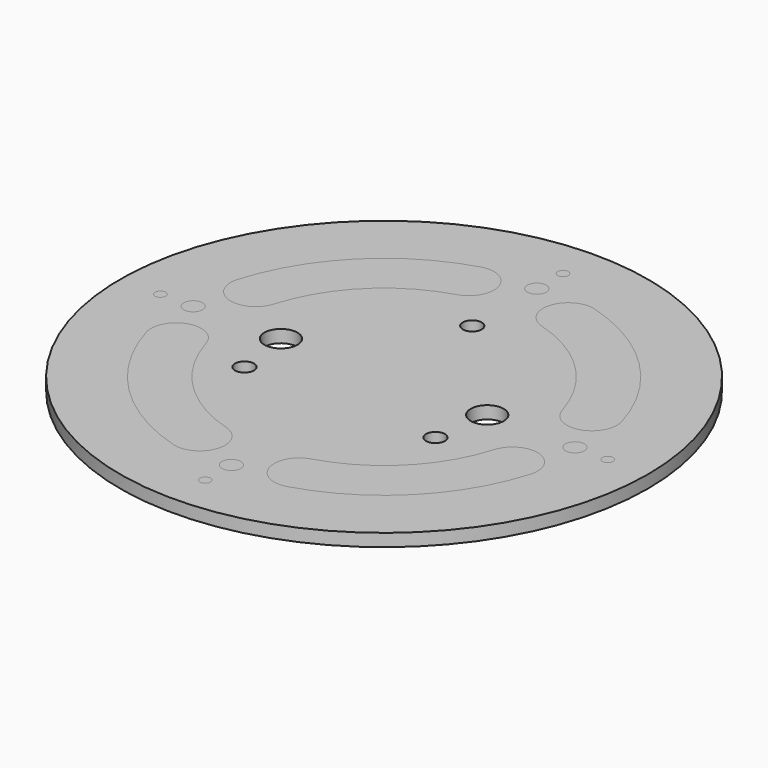
from build123d import *

# Parameters (mm, degrees)
F0_R     = 66.548
F0_R_2   = 2.3876
F0_R_3   = 4.1656
F3_DEPTH = 3.175
F2_R     = 2.3876
F2_R_2   = 1.35255


with BuildPart() as f3:
    # F0 (on Top) → F3 (new body)
    with BuildSketch(Plane.XY):
        Circle(F0_R)
        with Locations((-24.0647675102, -13.8938)):
            Circle(F0_R_2, mode=Mode.SUBTRACT)
        with Locations((24.0647675102, -13.8938)):
            Circle(F0_R_2, mode=Mode.SUBTRACT)
        with Locations((-26.0096, 0)):
            Circle(F0_R_3, mode=Mode.SUBTRACT)
        with Locations((26.0096, 0)):
            Circle(F0_R_3, mode=Mode.SUBTRACT)
        with Locations((0, 27.7876)):
            Circle(F0_R_2, mode=Mode.SUBTRACT)
    extrude(amount=-F3_DEPTH)


with BuildPart() as f3b:
    # F1 (on Top) → F3, piece 2 (new body)
    with BuildSketch(Plane.XY):
        with BuildLine():
            ThreePointArc((48.4661085088, 14.350416092), (35.7414193619, 35.7414193619), (14.350416092, 48.4661085088))
            ThreePointArc((14.350416092, 48.4661085088), (6.4588929009, 44.1802175017), (10.744783908, 36.2886943106))
            ThreePointArc((10.744783908, 36.2886943106), (26.7611632408, 26.7611632408), (36.2886943106, 10.744783908))
            ThreePointArc((36.2886943106, 10.744783908), (44.1802175017, 6.4588929009), (48.4661085088, 14.350416092))
        make_face()
    extrude(amount=-F3_DEPTH)


with BuildPart() as f3c:
    # F1 (on Top) → F3, piece 3 (new body)
    with BuildSketch(Plane.XY):
        with BuildLine():
            ThreePointArc((14.350416092, -48.4661085088), (35.7414193619, -35.7414193619), (48.4661085088, -14.350416092))
            ThreePointArc((48.4661085088, -14.350416092), (44.1802175017, -6.4588929009), (36.2886943106, -10.744783908))
            ThreePointArc((36.2886943106, -10.744783908), (26.7611632408, -26.7611632408), (10.744783908, -36.2886943106))
            ThreePointArc((10.744783908, -36.2886943106), (6.4588929009, -44.1802175017), (14.350416092, -48.4661085088))
        make_face()
    extrude(amount=-F3_DEPTH)


with BuildPart() as f3d:
    # F1 (on Top) → F3, piece 4 (new body)
    with BuildSketch(Plane.XY):
        with BuildLine():
            ThreePointArc((-48.4661085088, -14.350416092), (-35.7414193619, -35.7414193619), (-14.350416092, -48.4661085088))
            ThreePointArc((-14.350416092, -48.4661085088), (-6.4588929009, -44.1802175017), (-10.744783908, -36.2886943106))
            ThreePointArc((-10.744783908, -36.2886943106), (-26.7611632408, -26.7611632408), (-36.2886943106, -10.744783908))
            ThreePointArc((-36.2886943106, -10.744783908), (-44.1802175017, -6.4588929009), (-48.4661085088, -14.350416092))
        make_face()
    extrude(amount=-F3_DEPTH)


with BuildPart() as f3e:
    # F1 (on Top) → F3, piece 5 (new body)
    with BuildSketch(Plane.XY):
        with BuildLine():
            ThreePointArc((-14.350416092, 48.4661085088), (-35.7414193619, 35.7414193619), (-48.4661085088, 14.350416092))
            ThreePointArc((-48.4661085088, 14.350416092), (-44.1802175017, 6.4588929009), (-36.2886943106, 10.744783908))
            ThreePointArc((-36.2886943106, 10.744783908), (-26.7611632408, 26.7611632408), (-10.744783908, 36.2886943106))
            ThreePointArc((-10.744783908, 36.2886943106), (-6.4588929009, 44.1802175017), (-14.350416092, 48.4661085088))
        make_face()
    extrude(amount=-F3_DEPTH)


with BuildPart() as f3f:
    # F2 (on Top) → F3, piece 6 (new body)
    with BuildSketch(Plane.XY):
        with Locations((0, -48.133)):
            Circle(F2_R)
    extrude(amount=-F3_DEPTH)


with BuildPart() as f3g:
    # F2 (on Top) → F3, piece 7 (new body)
    with BuildSketch(Plane.XY):
        with Locations((-48.133, 0)):
            Circle(F2_R)
    extrude(amount=-F3_DEPTH)


with BuildPart() as f3h:
    # F2 (on Top) → F3, piece 8 (new body)
    with BuildSketch(Plane.XY):
        with Locations((48.133, 0)):
            Circle(F2_R)
    extrude(amount=-F3_DEPTH)


with BuildPart() as f3i:
    # F2 (on Top) → F3, piece 9 (new body)
    with BuildSketch(Plane.XY):
        with Locations((0, 48.133)):
            Circle(F2_R)
    extrude(amount=-F3_DEPTH)


with BuildPart() as f3j:
    # F2 (on Top) → F3, piece 10 (new body)
    with BuildSketch(Plane.XY):
        with Locations((0, -56.388)):
            Circle(F2_R_2)
    extrude(amount=-F3_DEPTH)


with BuildPart() as f3k:
    # F2 (on Top) → F3, piece 11 (new body)
    with BuildSketch(Plane.XY):
        with Locations((56.388, 0)):
            Circle(F2_R_2)
    extrude(amount=-F3_DEPTH)


with BuildPart() as f3l:
    # F2 (on Top) → F3, piece 12 (new body)
    with BuildSketch(Plane.XY):
        with Locations((0, 56.388)):
            Circle(F2_R_2)
    extrude(amount=-F3_DEPTH)


with BuildPart() as f3m:
    # F2 (on Top) → F3, piece 13 (new body)
    with BuildSketch(Plane.XY):
        with Locations((-56.388, 0)):
            Circle(F2_R_2)
    extrude(amount=-F3_DEPTH)


solid = Compound([f3.part, f3b.part, f3c.part, f3d.part, f3e.part, f3f.part, f3g.part, f3h.part, f3i.part, f3j.part, f3k.part, f3l.part, f3m.part])
